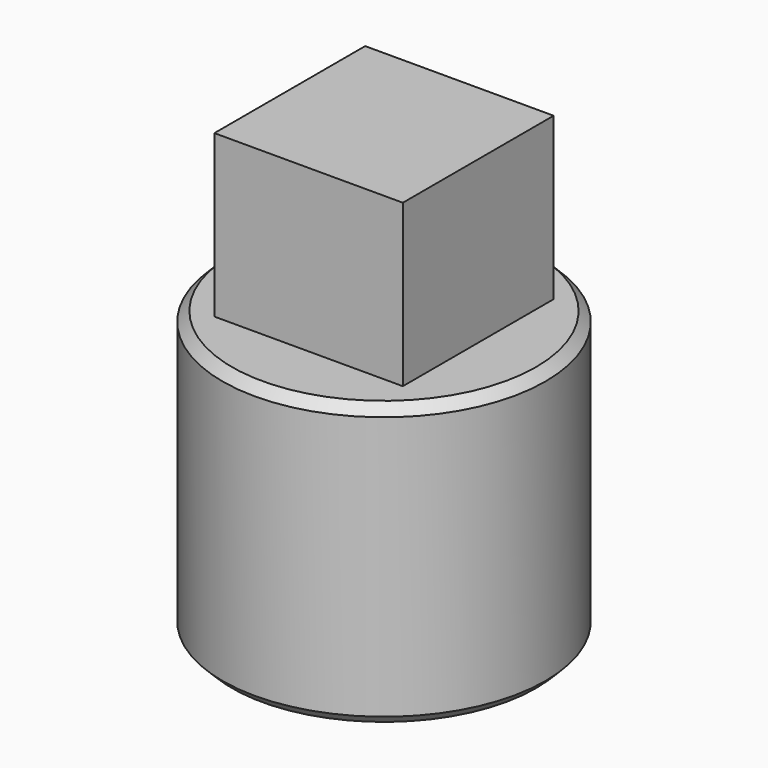
from build123d import *

# Parameters (mm, degrees)
SKETCH001_W = 14
SKETCH001_H = 14
PAD_DEPTH   = 12


with BuildPart() as corps:
    # Sketch (on XZ_Plane of Origin) → Revolution (revolve)
    with BuildSketch(Plane.XZ):
        Polygon((0, 30), (5.292893, 30), (6, 29.292893), (6, 24.707107), (5.292893, 24), (4, 24), (4, 21), (11.292893, 21), (12, 20.292893), (12, 0.707107), (11.292893, 0), (0, 0), align=None)
    revolve(axis=Axis((0, 0, 0), (0, 0, 1)))


with BuildPart() as corps001:
    # Sketch001 (on Face7 of Binder) → Pad (new body)
    with BuildSketch(Plane.XY.offset(21.2)):
        Rectangle(SKETCH001_W, SKETCH001_H)
    extrude(amount=PAD_DEPTH)

    # Sketch002 (on YZ_Plane001 of Origin002) → Groove (revolve, cut)
    with BuildSketch(Plane.YZ):
        Polygon((0, 30.3), (0, 21.2), (4.3, 21.2), (4.3, 23.7), (6.3, 23.7), (6.3, 30.3), align=None)
    revolve(axis=Axis((0, 0, 0), (0, 0, 1)), mode=Mode.SUBTRACT)


solid = Compound([corps.part, corps001.part])
